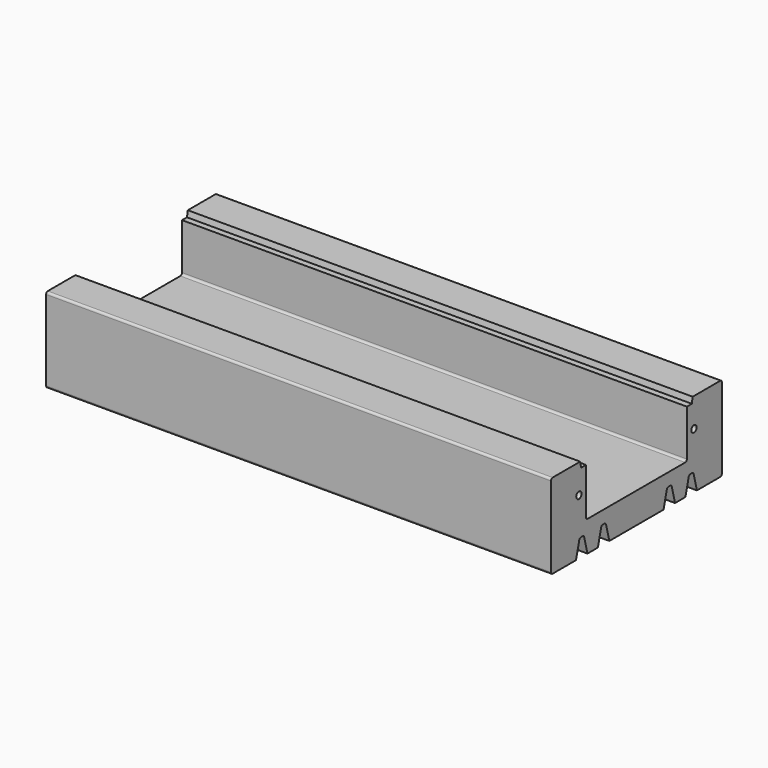
from build123d import *

# Parameters (mm, degrees)
F0_R     = 1.987598
F1_DEPTH = 150


with BuildPart() as f1:
    # F0 (on Right) → F1 (new body, symmetric)
    with BuildSketch(Plane.YZ):
        with BuildLine():
            Line((-39.636697, 28.679715), (-60.102162, 28.679715))
            ThreePointArc((-60.102162, 28.679715), (-61.000188, 28.307741), (-61.372162, 27.409715))
            Line((-61.372162, 27.409715), (-61.372162, 25.519416))
            Line((-61.372162, 25.519416), (-61.372162, 15.414117))
            Line((-61.372162, 15.414117), (-61.372162, 9.009416))
            Line((-61.372162, 9.009416), (-61.372162, -1.095883))
            Line((-61.372162, -1.095883), (-61.372162, -7.500584))
            Line((-61.372162, -7.500584), (-61.372162, -17.605883))
            Line((-61.372162, -17.605883), (-61.372162, -20.358669))
            ThreePointArc((-61.372162, -20.358669), (-61.000188, -21.256694), (-60.102162, -21.628669))
            Line((-60.102162, -21.628669), (-42.755983, -21.628669))
            Line((-42.755983, -21.628669), (-40.311523, -12.023924))
            ThreePointArc((-40.311523, -12.023924), (-39.86021, -11.334487), (-39.080758, -11.067161))
            Line((-39.080758, -11.067161), (-37.751933, -11.067161))
            ThreePointArc((-37.751933, -11.067161), (-37.09523, -11.292388), (-36.714989, -11.873253))
            Line((-36.714989, -11.873253), (-34.232183, -21.628669))
            Line((-34.232183, -21.628669), (-26.499983, -21.628669))
            Line((-26.499983, -21.628669), (-24.055523, -12.023924))
            ThreePointArc((-24.055523, -12.023924), (-23.60421, -11.334487), (-22.824758, -11.067161))
            Line((-22.824758, -11.067161), (-21.651408, -11.067161))
            ThreePointArc((-21.651408, -11.067161), (-20.871956, -11.334487), (-20.420643, -12.023924))
            Line((-20.420643, -12.023924), (-17.976183, -21.628669))
            Line((-17.976183, -21.628669), (22.268017, -21.628669))
            Line((22.268017, -21.628669), (24.712477, -12.023924))
            ThreePointArc((24.712477, -12.023924), (25.16379, -11.334487), (25.943242, -11.067161))
            Line((25.943242, -11.067161), (27.116592, -11.067161))
            ThreePointArc((27.116592, -11.067161), (27.896044, -11.334487), (28.347357, -12.023924))
            Line((28.347357, -12.023924), (30.791817, -21.628669))
            Line((30.791817, -21.628669), (38.524017, -21.628669))
            Line((38.524017, -21.628669), (40.968477, -12.023924))
            ThreePointArc((40.968477, -12.023924), (41.41979, -11.334487), (42.199242, -11.067161))
            Line((42.199242, -11.067161), (43.372592, -11.067161))
            ThreePointArc((43.372592, -11.067161), (44.152044, -11.334487), (44.603357, -12.023924))
            Line((44.603357, -12.023924), (47.047817, -21.628669))
            Line((47.047817, -21.628669), (64.357838, -21.628669))
            ThreePointArc((64.357838, -21.628669), (65.255864, -21.256694), (65.627838, -20.358669))
            Line((65.627838, -20.358669), (65.627838, -17.605883))
            Line((65.627838, -17.605883), (65.627838, -7.500584))
            Line((65.627838, -7.500584), (65.627838, -1.095883))
            Line((65.627838, -1.095883), (65.627838, 9.009416))
            Line((65.627838, 9.009416), (65.627838, 15.414117))
            Line((65.627838, 15.414117), (65.627838, 25.519416))
            Line((65.627838, 25.519416), (65.627838, 27.409715))
            ThreePointArc((65.627838, 27.409715), (65.255864, 28.307741), (64.357838, 28.679715))
            Line((64.357838, 28.679715), (43.892373, 28.679715))
            Line((43.892373, 28.679715), (43.281854, 25.220107))
            Line((43.281854, 25.220107), (39.618739, 25.220107))
            Line((39.618739, 25.220107), (39.618739, -2.204287))
            ThreePointArc((39.618739, -2.204287), (39.246764, -3.102313), (38.348739, -3.474287))
            Line((38.348739, -3.474287), (2.127838, -3.474287))
            Line((2.127838, -3.474287), (-34.093063, -3.474287))
            ThreePointArc((-34.093063, -3.474287), (-34.991088, -3.102313), (-35.363063, -2.204287))
            Line((-35.363063, -2.204287), (-35.363063, 25.220107))
            Line((-35.363063, 25.220107), (-39.026178, 25.220107))
            Line((-39.026178, 25.220107), (-39.636697, 28.679715))
        make_face()
        with Locations((-40.600646, 11.4808)):
            Circle(F0_R, mode=Mode.SUBTRACT)
        with Locations((44.856322, 11.4808)):
            Circle(F0_R, mode=Mode.SUBTRACT)
    extrude(amount=F1_DEPTH, both=True)


solid = f1.part
